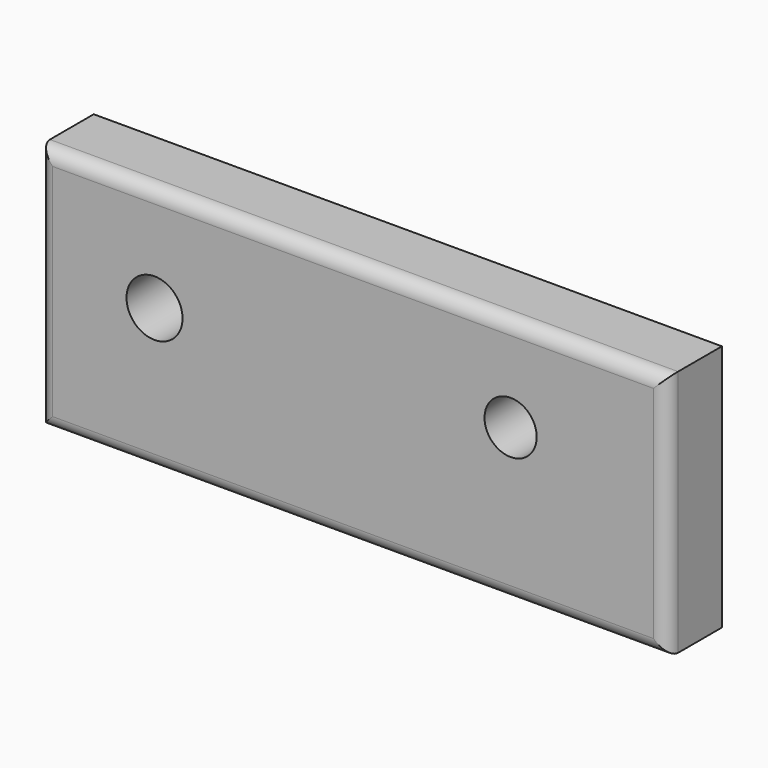
from build123d import *

# Parameters (mm, degrees)
F0_W     = 233.076439
F0_H     = 91.861807
F1_DEPTH = 25.4
F2_R     = 5.08
F3_R     = 10.397346
F3_R_2   = 9.68524
F4_DEPTH = 25.4


with BuildPart() as f1:
    # F0 (on Front) → F1 (new body)
    with BuildSketch(Plane.XZ):
        with Locations((1.484566, 7.702914)):
            Rectangle(F0_W, F0_H)
    extrude(amount=F1_DEPTH)

    # F2
    f2_edges = [f1.edges().sort_by_distance(p)[0] for p in [
        (1.484565, -25.4, 53.633817),
        (-115.053654, -25.4, 7.702913),
        (1.484565, -25.4, -38.22799),
        (118.022785, -25.4, 7.702913),
    ]]
    fillet(f2_edges, radius=F2_R)

    # F3 (on face) → F4 (cut)
    with BuildSketch(Plane.XZ.offset(25.4)):
        with Locations((-72.182253, 14.576591)):
            Circle(F3_R)
        with Locations((59.943877, 18.573165)):
            Circle(F3_R_2)
    extrude(amount=-F4_DEPTH, mode=Mode.SUBTRACT)


solid = f1.part
